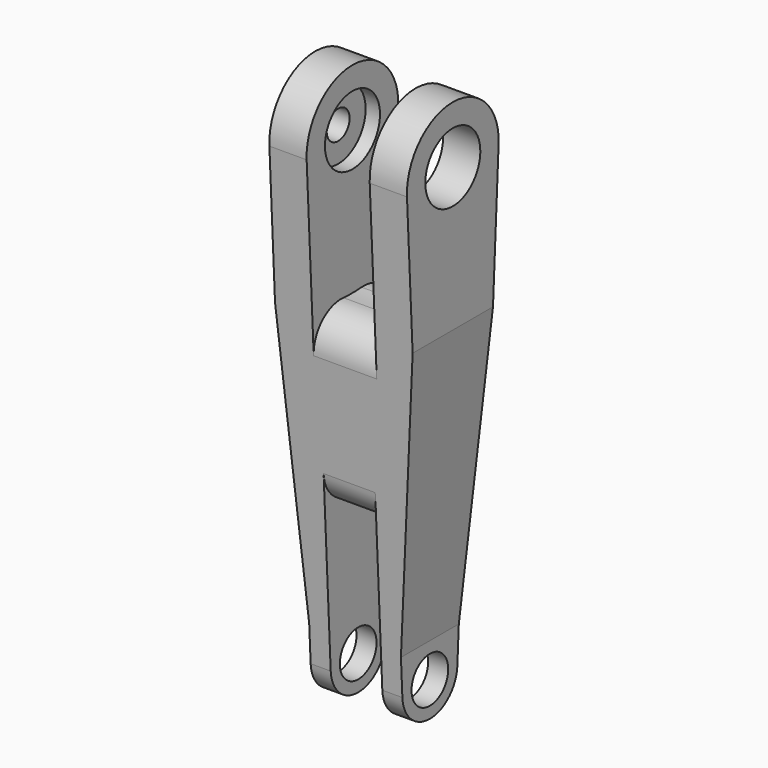
from build123d import *

# Parameters (mm, degrees)
F0_R     = 2
F0_R_2   = 1
F1_DEPTH = 6
F7_START = -5.001
F7_DEPTH = 10.002
F8_R     = 3


with BuildPart() as f1:
    # F0 (on Right) → F1 (new body, symmetric)
    with BuildSketch(Plane.YZ):
        with BuildLine():
            Line((2.9962476533, -40.15), (4.9937460889, -0.25))
            ThreePointArc((4.9937460889, -0.25), (0, 5), (-4.9937460889, -0.25))
            Line((-4.9937460889, -0.25), (-2.9962476533, -40.15))
            ThreePointArc((-2.9962476533, -40.15), (0, -43), (2.9962476533, -40.15))
        make_face()
        with Locations((0, -40)):
            Circle(F0_R, mode=Mode.SUBTRACT)
        Circle(F0_R_2, mode=Mode.SUBTRACT)
    extrude(amount=F1_DEPTH, both=True)

    # F2 (on Front) → F3 (revolve, cut)
    with BuildSketch(Plane.XZ):
        Polygon((2.75, 12.5), (-2.75, 12.5), (-2.75, 3), (-4, 3), (-4, 1.25), (-6, 1.25), (-6, 0), (6, 0), (6, 3), (2.75, 3), align=None)
    revolve(axis=Axis((0, 0, 0), (1, 0, 0)), mode=Mode.SUBTRACT)

    # F4 (on Front) → F5 (revolve, cut)
    with BuildSketch(Plane.XZ):
        Polygon((-2.25, -52.5), (0, -52.5), (2.25, -52.5), (2.25, -42), (6, -42), (6, -40), (-6, -40), (-6, -42), (-2.25, -42), align=None)
    revolve(axis=Axis((0, 0, -40), (1, 0, 0)), mode=Mode.SUBTRACT)

    # F6 (on Front) → F7 (intersect)
    with BuildSketch(Plane.XZ.offset(F7_START)):
        Polygon((-4, -43), (0, -43), (4, -43), (4, -37), (6, -12.5), (6, 5), (0, 5), (-6, 5), (-6, -12.5), (-4, -37), align=None)
    extrude(amount=F7_DEPTH, mode=Mode.INTERSECT)

    # F8
    f8_edges = [f1.edges().sort_by_distance(p)[0] for p in [
        (0, -4.420924, -11.69211),
        (0, 4.420924, -11.69211),
        (0, 3.602981, -28.030517),
        (0, -3.602981, -28.030517),
    ]]
    fillet(f8_edges, radius=F8_R)


solid = f1.part
